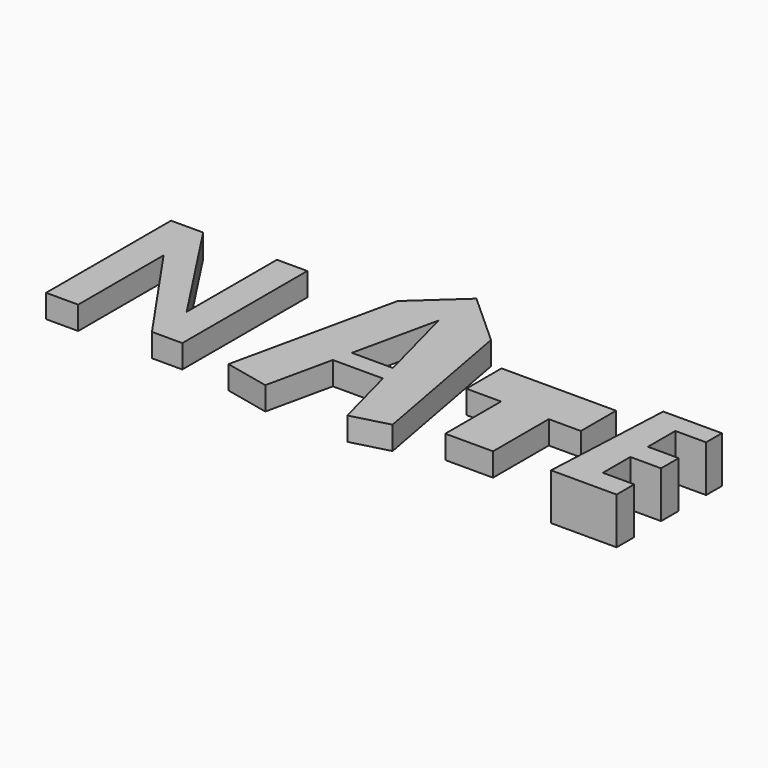
from build123d import *

# Parameters (mm, degrees)
F1_DEPTH  = 25.4
F0_W      = 52.1645247936
F0_H      = 76.1762037873
F0_W_2    = 114.7619485855
F0_H_2    = 76.8241360784
F3_DEPTH  = 50.8
F4_W      = 31.2986969948
F4_H      = 23.7111561
F5_DEPTH  = 50.8
F6_DEPTH  = 25.4
F7_DEPTH  = 25.4
F8_DEPTH  = 25.4
F9_DEPTH  = 25.4
F10_DEPTH = 25.4
F12_DEPTH = 50.8


with BuildPart() as f1:
    # F0 (on Top) → F1 (new body)
    with BuildSketch(Plane.XY):
        Polygon((-182.453379035, 85.0596278906), (-217.5458818674, 85.0596278906), (-217.5458818674, -85.6606662273), (-182.453379035, -85.6606662273), (-182.453379035, 30.998211354), align=None)
        Polygon((-101.8354520202, -38.2383577526), (-182.453379035, 85.0596278906), (-182.453379035, 30.998211354), (-101.8354520202, -85.6606662273), align=None)
        Polygon((-101.8354520202, 85.0596502423), (-101.8354520202, -38.2383577526), (-101.8354520202, -85.6606662273), (-68.639844656, -85.6606662273), (-68.639844656, 85.0596502423), align=None)
    extrude(amount=F1_DEPTH)


with BuildPart() as f1b:
    # F0 (on Top) → F1, piece 2 (new body)
    with BuildSketch(Plane.XY):
        Polygon((76.009353229, 135.3272944689), (26.2047741562, 89.8018702865), (-13.6299645528, -91.3513377309), (35.2049136263, -102.0898978339), (51.1106868903, -29.7565037626), (55.6071334276, -9.3083788014), (76.009353229, 83.4731402312), (100.426262979, -9.3083788014), (105.807507293, -29.7565037626), (124.843172729, -102.0898978339), (165.6484969401, -91.3513377309), (133.3791911602, 83.4731402312), align=None)
        Polygon((55.6071334276, -9.3083788014), (51.1106868903, -29.7565037626), (105.807507293, -29.7565037626), (100.426262979, -9.3083788014), align=None)
    extrude(amount=F1_DEPTH)


with BuildPart() as f1c:
    # F0 (on Top) → F1, piece 3 (new body)
    with BuildSketch(Plane.XY):
        with Locations((237.2340410948, -38.0881018937)):
            Rectangle(F0_W, F0_H)
        Polygon((173.2139289379, 0), (211.151778698, 0), (263.3163034916, 0), (298.408806324, 0), (298.408806324, 48.0702407658), (213.9971107244, 48.0702407658), (173.2139289379, 48.0702407658), align=None)
    extrude(amount=F1_DEPTH)


with BuildPart() as f1d:
    # F0 (on Top) → F1, piece 4 (new body)
    with BuildSketch(Plane.XY):
        with Locations((428.8201630116, 76.9978500903)):
            Rectangle(F0_W_2, F0_H_2)
    extrude(amount=F1_DEPTH)

    # F4 (on face) → F5 (cut)
    with BuildSketch(Plane.XY.offset(25.4)):
        with Locations((433.5623979568, 72.2556207329)):
            Rectangle(F4_W, F4_H)
    extrude(amount=-F5_DEPTH, mode=Mode.SUBTRACT)

    # F10 (cut): a face of the model
    f10_faces = [f1d.faces().sort_by_distance(p)[0] for p in [
        (372.820211989, 76.9978500903, 25.4),
    ]]
    extrude(f10_faces, amount=-F10_DEPTH, mode=Mode.SUBTRACT)


with BuildPart() as f3:
    # F2 (on face) → F3 (new body)
    with BuildSketch(Plane.XY.offset(25.4)):
        Polygon((395.150333643, 38.5857820511), (371.4391887188, 38.5857820511), (371.4391887188, -18.3209888637), (487.1495962143, -18.3209888637), (487.1495962143, 0), (395.150333643, 0), align=None)
    extrude(amount=F3_DEPTH)

    # F6 (cut): a face of the model
    f6_faces = [f3.faces().sort_by_distance(p)[0] for p in [
        (383.2947611809, 38.5857820511, 50.8),
    ]]
    extrude(f6_faces, amount=-F6_DEPTH, mode=Mode.SUBTRACT)

    # F7 (cut): a face of the model
    f7_faces = [f3.faces().sort_by_distance(p)[0] for p in [
        (383.2947611809, 13.1857820511, 50.8),
    ]]
    extrude(f7_faces, amount=-F7_DEPTH, mode=Mode.SUBTRACT)

    # F8 (cut): a face of the model
    f8_faces = [f3.faces().sort_by_distance(p)[0] for p in [
        (441.1499649286, 0, 50.8),
    ]]
    extrude(f8_faces, amount=-F8_DEPTH, mode=Mode.SUBTRACT)

    # F9 (cut): a face of the model
    f9_faces = [f3.faces().sort_by_distance(p)[0] for p in [
        (383.2947611809, -12.2142179489, 50.8),
    ]]
    extrude(f9_faces, amount=-F9_DEPTH, mode=Mode.SUBTRACT)


with BuildPart() as f12:
    # F11 (on Top) → F12 (new body)
    with BuildSketch(Plane.XY):
        Polygon((425.4434108734, 33.8778495789), (361.3499701023, 33.8778495789), (354.3695211411, -110.8083352447), (426.077991724, -110.8083352447), (426.077991724, -86.6939723492), (391.810208559, -86.6939723492), (391.810208559, -49.2532514036), (425.4434108734, -49.2532514036), (425.4434108734, -25.1388847828), (391.810208559, -25.1388847828), (391.810208559, 12.3018408194), (425.4434108734, 12.3018408194), align=None)
    extrude(amount=F12_DEPTH)


solid = Compound([f1.part, f1b.part, f1c.part, f12.part])
